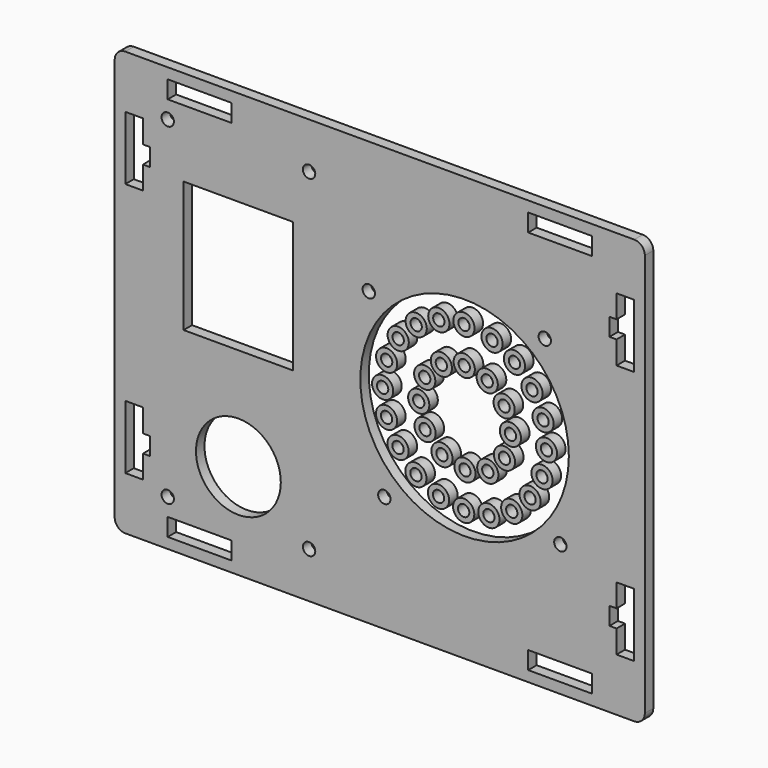
from build123d import *

# Parameters (mm, degrees)
F0_R     = 1.75
F0_W     = 18
F0_H     = 5
F0_R_2   = 12
F0_W_2   = 31
F0_H_2   = 37
F0_R_3   = 29.5
F1_DEPTH = 3
F2_R     = 3
F2_R_2   = 1.6
F3_DEPTH = 3


with BuildPart() as f1:
    # F0 (on Front) → F1 (new body)
    with BuildSketch(Plane.XZ):
        with BuildLine():
            Line((72, 60), (-72, 60))
            ThreePointArc((-72, 60), (-74.12132, 59.12132), (-75, 57))
            Line((-75, 57), (-75, -57))
            ThreePointArc((-75, -57), (-74.12132, -59.12132), (-72, -60))
            Line((-72, -60), (72, -60))
            ThreePointArc((72, -60), (74.12132, -59.12132), (75, -57))
            Line((75, -57), (75, 57))
            ThreePointArc((75, 57), (74.12132, 59.12132), (72, 60))
        make_face()
        with Locations((-60, -47)):
            Circle(F0_R, mode=Mode.SUBTRACT)
        with Locations((-51, -54.5)):
            Rectangle(F0_W, F0_H, mode=Mode.SUBTRACT)
        Polygon((-72, -27), (-67, -27), (-67, -33.5), (-65, -33.5), (-65, -38.5), (-67, -38.5), (-67, -45), (-72, -45), align=None, mode=Mode.SUBTRACT)
        with Locations((-40, -33)):
            Circle(F0_R_2, mode=Mode.SUBTRACT)
        with Locations((-20, -47)):
            Circle(F0_R, mode=Mode.SUBTRACT)
        with Locations((51, -54.5)):
            Rectangle(F0_W, F0_H, mode=Mode.SUBTRACT)
        Polygon((67, -27), (72, -27), (72, -45), (67, -45), (67, -38.5), (65, -38.5), (65, -33.5), (67, -33.5), align=None, mode=Mode.SUBTRACT)
        with Locations((1.3, -27.1)):
            Circle(F0_R, mode=Mode.SUBTRACT)
        with Locations((51.1, -22.7)):
            Circle(F0_R, mode=Mode.SUBTRACT)
        with Locations((-40, 14.5)):
            Rectangle(F0_W_2, F0_H_2, mode=Mode.SUBTRACT)
        with Locations((-3.1, 22.7)):
            Circle(F0_R, mode=Mode.SUBTRACT)
        Polygon((-67, 33.5), (-67, 27), (-72, 27), (-72, 45), (-67, 45), (-67, 38.5), (-65, 38.5), (-65, 33.5), align=None, mode=Mode.SUBTRACT)
        with Locations((-60, 47)):
            Circle(F0_R, mode=Mode.SUBTRACT)
        with Locations((-51, 54.5)):
            Rectangle(F0_W, F0_H, mode=Mode.SUBTRACT)
        with Locations((-20, 47)):
            Circle(F0_R, mode=Mode.SUBTRACT)
        with Locations((24, 0)):
            Circle(F0_R_3, mode=Mode.SUBTRACT)
        with Locations((46.7, 27.1)):
            Circle(F0_R, mode=Mode.SUBTRACT)
        Polygon((67, 45), (72, 45), (72, 27), (67, 27), (67, 33.5), (65, 33.5), (65, 38.5), (67, 38.5), align=None, mode=Mode.SUBTRACT)
        with Locations((51, 54.5)):
            Rectangle(F0_W, F0_H, mode=Mode.SUBTRACT)
    extrude(amount=F1_DEPTH)


with BuildPart() as f3:
    # F2 (on face) → F3 (new body)
    with BuildSketch(Plane(origin=(0, 0, 0), x_dir=(-1, 0, 0), z_dir=(0, 1, 0))):
        with Locations((-23.830123, 23.185955)):
            Circle(F2_R)
        with Locations((-23.830123, 23.185955)):
            Circle(F2_R_2, mode=Mode.SUBTRACT)
        with Locations((-16.714011, 22.012082)):
            Circle(F2_R)
        with Locations((-16.714011, 22.012082)):
            Circle(F2_R_2, mode=Mode.SUBTRACT)
        with Locations((-10.302853, 18.708436)):
            Circle(F2_R)
        with Locations((-10.302853, 18.708436)):
            Circle(F2_R_2, mode=Mode.SUBTRACT)
        with Locations((-5.216959, 13.594659)):
            Circle(F2_R)
        with Locations((-5.216959, 13.594659)):
            Circle(F2_R_2, mode=Mode.SUBTRACT)
        with Locations((-1.948413, 7.165536)):
            Circle(F2_R)
        with Locations((-1.948413, 7.165536)):
            Circle(F2_R_2, mode=Mode.SUBTRACT)
        with Locations((-0.813462, 0.043112)):
            Circle(F2_R)
        with Locations((-0.813462, 0.043112)):
            Circle(F2_R_2, mode=Mode.SUBTRACT)
        with Locations((-1.921919, -7.083482)):
            Circle(F2_R)
        with Locations((-1.921919, -7.083482)):
            Circle(F2_R_2, mode=Mode.SUBTRACT)
        with Locations((-5.166534, -13.524716)):
            Circle(F2_R)
        with Locations((-5.166534, -13.524716)):
            Circle(F2_R_2, mode=Mode.SUBTRACT)
        with Locations((-10.233377, -18.65737)):
            Circle(F2_R)
        with Locations((-10.233377, -18.65737)):
            Circle(F2_R_2, mode=Mode.SUBTRACT)
        with Locations((-16.632205, -21.984835)):
            Circle(F2_R)
        with Locations((-16.632205, -21.984835)):
            Circle(F2_R_2, mode=Mode.SUBTRACT)
        with Locations((-23.743902, -23.185163)):
            Circle(F2_R)
        with Locations((-23.743902, -23.185163)):
            Circle(F2_R_2, mode=Mode.SUBTRACT)
        with Locations((-30.880378, -22.142217)):
            Circle(F2_R)
        with Locations((-30.880378, -22.142217)):
            Circle(F2_R_2, mode=Mode.SUBTRACT)
        with Locations((-37.351145, -18.956907)):
            Circle(F2_R)
        with Locations((-37.351145, -18.956907)):
            Circle(F2_R_2, mode=Mode.SUBTRACT)
        with Locations((-42.530125, -13.937426)):
            Circle(F2_R)
        with Locations((-42.530125, -13.937426)):
            Circle(F2_R_2, mode=Mode.SUBTRACT)
        with Locations((-45.916228, -7.569433)):
            Circle(F2_R)
        with Locations((-45.916228, -7.569433)):
            Circle(F2_R_2, mode=Mode.SUBTRACT)
        with Locations((-47.181833, -0.469061)):
            Circle(F2_R)
        with Locations((-47.181833, -0.469061)):
            Circle(F2_R_2, mode=Mode.SUBTRACT)
        with Locations((-46.204485, 6.676694)):
            Circle(F2_R)
        with Locations((-46.204485, 6.676694)):
            Circle(F2_R_2, mode=Mode.SUBTRACT)
        with Locations((-43.078748, 13.176447)):
            Circle(F2_R)
        with Locations((-43.078748, 13.176447)):
            Circle(F2_R_2, mode=Mode.SUBTRACT)
        with Locations((-38.107052, 18.401317)):
            Circle(F2_R)
        with Locations((-38.107052, 18.401317)):
            Circle(F2_R_2, mode=Mode.SUBTRACT)
        with Locations((-31.770432, 21.845772)):
            Circle(F2_R)
        with Locations((-31.770432, 21.845772)):
            Circle(F2_R_2, mode=Mode.SUBTRACT)
        with Locations((-23.904947, 12.973519)):
            Circle(F2_R)
        with Locations((-23.904947, 12.973519)):
            Circle(F2_R_2, mode=Mode.SUBTRACT)
        with Locations((-17.430922, 11.18787)):
            Circle(F2_R)
        with Locations((-17.430922, 11.18787)):
            Circle(F2_R_2, mode=Mode.SUBTRACT)
        with Locations((-12.717076, 6.404441)):
            Circle(F2_R)
        with Locations((-12.717076, 6.404441)):
            Circle(F2_R_2, mode=Mode.SUBTRACT)
        with Locations((-11.026481, -0.095053)):
            Circle(F2_R)
        with Locations((-11.026481, -0.095053)):
            Circle(F2_R_2, mode=Mode.SUBTRACT)
        with Locations((-12.81213, -6.569078)):
            Circle(F2_R)
        with Locations((-12.81213, -6.569078)):
            Circle(F2_R_2, mode=Mode.SUBTRACT)
        with Locations((-17.595559, -11.282924)):
            Circle(F2_R)
        with Locations((-17.595559, -11.282924)):
            Circle(F2_R_2, mode=Mode.SUBTRACT)
        with Locations((-24.095053, -12.973519)):
            Circle(F2_R)
        with Locations((-24.095053, -12.973519)):
            Circle(F2_R_2, mode=Mode.SUBTRACT)
        with Locations((-30.569078, -11.18787)):
            Circle(F2_R)
        with Locations((-30.569078, -11.18787)):
            Circle(F2_R_2, mode=Mode.SUBTRACT)
        with Locations((-35.282924, -6.404441)):
            Circle(F2_R)
        with Locations((-35.282924, -6.404441)):
            Circle(F2_R_2, mode=Mode.SUBTRACT)
        with Locations((-36.973519, 0.095053)):
            Circle(F2_R)
        with Locations((-36.973519, 0.095053)):
            Circle(F2_R_2, mode=Mode.SUBTRACT)
        with Locations((-35.18787, 6.569078)):
            Circle(F2_R)
        with Locations((-35.18787, 6.569078)):
            Circle(F2_R_2, mode=Mode.SUBTRACT)
        with Locations((-30.404441, 11.282924)):
            Circle(F2_R)
        with Locations((-30.404441, 11.282924)):
            Circle(F2_R_2, mode=Mode.SUBTRACT)
    extrude(amount=-F3_DEPTH)


solid = Compound([f1.part, f3.part])
